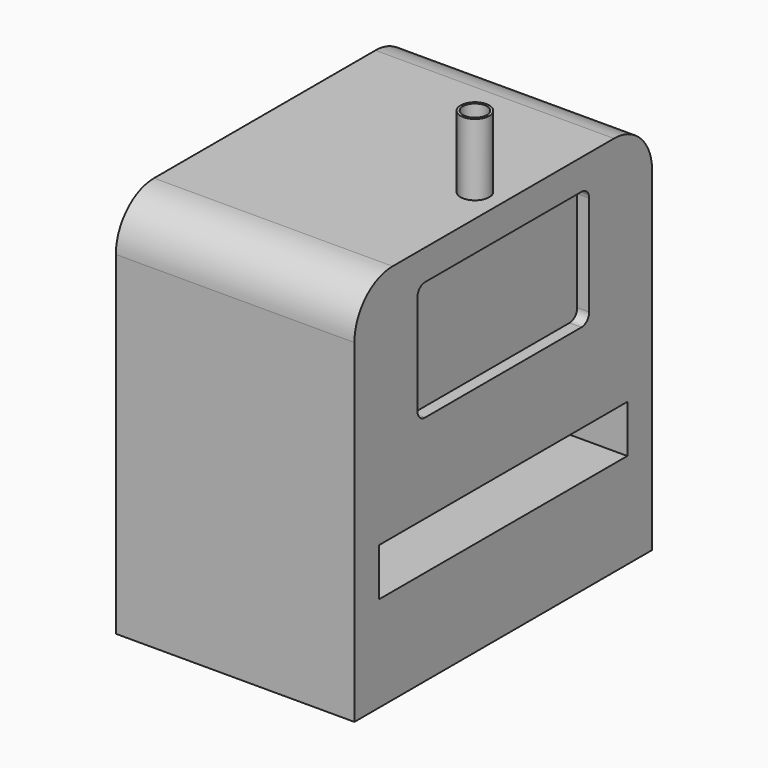
from build123d import *

# Parameters (mm, degrees)
F0_W      = 780
F0_H      = 800
F1_DEPTH  = 500
F2_R      = 100
F3_R      = 30
F4_DEPTH  = 150
F5_R      = 25
F6_DEPTH  = 200
F7_W      = 450
F7_H      = 250
F8_DEPTH  = 25
F9_R      = 20
F11_DEPTH = 150


with BuildPart() as f1:
    # F0 (on Right) → F1 (new body)
    with BuildSketch(Plane.YZ):
        Rectangle(F0_W, F0_H)
    extrude(amount=-F1_DEPTH)

    # F2
    f2_edges = [f1.edges().sort_by_distance(p)[0] for p in [
        (-250, -390, 400),
        (-250, 390, 400),
    ]]
    fillet(f2_edges, radius=F2_R)

    # F3 (on face) → F4 (join)
    with BuildSketch(Plane.XY.offset(400)):
        with Locations((-59.408359, 0)):
            Circle(F3_R)
    extrude(amount=F4_DEPTH)

    # F5 (on face) → F6 (cut)
    with BuildSketch(Plane.XY.offset(550)):
        with Locations((-59.408359, 0)):
            Circle(F5_R)
    extrude(amount=-F6_DEPTH, mode=Mode.SUBTRACT)

    # F7 (on face) → F8 (cut)
    with BuildSketch(Plane.YZ):
        with Locations((0, 211.28722)):
            Rectangle(F7_W, F7_H)
    extrude(amount=-F8_DEPTH, mode=Mode.SUBTRACT)

    # F9
    f9_edges = [f1.edges().sort_by_distance(p)[0] for p in [
        (-12.5, -225, 336.28722),
        (-12.5, 225, 336.28722),
        (-12.5, -225, 86.28722),
        (-12.5, 225, 86.28722),
    ]]
    fillet(f9_edges, radius=F9_R)

    # F10 (on face) → F11 (cut)
    with BuildSketch(Plane.YZ):
        Polygon((0, -200), (325, -200), (325, -100), (-325, -100), (-325, -200), align=None)
    extrude(amount=-F11_DEPTH, mode=Mode.SUBTRACT)


solid = f1.part
